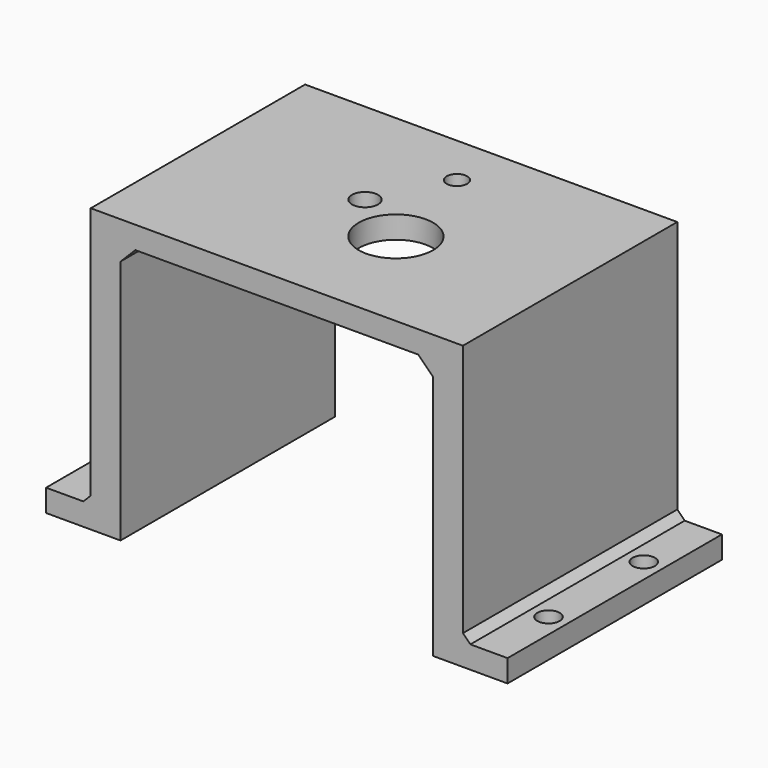
from build123d import *

# Parameters (mm, degrees)
CYLINDER056_R             = 1.38
CYLINDER056_DEPTH         = 40
CYLINDER067_R             = 1.75
CYLINDER067_DEPTH         = 10
CYLINDER066_R             = 5
CYLINDER066_DEPTH         = 10
CYLINDER050_R             = 8.5
CYLINDER050_DEPTH         = 2
BOX028_W                  = 0.5
BOX028_H                  = 1
BOX028_DEPTH              = 5
ARRAY003_COUNT            = 12
BOX029_W                  = 0.5
BOX029_H                  = 1
BOX029_DEPTH              = 5
CYLINDER052_R             = 4.5
CYLINDER052_DEPTH         = 8
CYLINDER054_R             = 1.5
CYLINDER054_DEPTH         = 4
BOX030_W                  = 1
BOX030_H                  = 10
BOX030_DEPTH              = 30
CYLINDER053_R             = 3
CYLINDER053_DEPTH         = 30
CYLINDER051_R             = 13
CYLINDER051_DEPTH         = 10
FUSION008_ROLL_ANGLE      = 180
FUSION008_PLACEMENT_ANGLE = 150
CYLINDER060_R             = 1.5
CYLINDER060_DEPTH         = 5
CYLINDER059_R             = 1.5
CYLINDER059_DEPTH         = 5
CYLINDER058_R             = 1.5
CYLINDER058_DEPTH         = 5
CYLINDER057_R             = 1.5
CYLINDER057_DEPTH         = 5
BOX034_W                  = 4
BOX034_H                  = 36
BOX034_DEPTH              = 38
BOX035_W                  = 4
BOX035_H                  = 36
BOX035_DEPTH              = 38
BOX036_W                  = 10
BOX036_H                  = 36
BOX036_DEPTH              = 3
BOX032_W                  = 10
BOX032_H                  = 36
BOX032_DEPTH              = 3
BOX033_W                  = 50
BOX033_H                  = 36
BOX033_DEPTH              = 3
CHAMFER002_SIZE           = 2
CHAMFER003_SIZE           = 1


with BuildPart() as cylinder056:
    # Cylinder056 → Cylinder056 (new body)
    with BuildSketch(Plane(origin=(38, 57, 59), x_dir=(1, 0, 0), z_dir=(0, 0, 1))):
        Circle(CYLINDER056_R)
    extrude(amount=CYLINDER056_DEPTH)


with BuildPart() as cylinder067:
    # Cylinder067 → Cylinder067 (new body)
    with BuildSketch(Plane(origin=(33.25, 47.5, 71), x_dir=(1, 0, 0), z_dir=(0, 0, 1))):
        Circle(CYLINDER067_R)
    extrude(amount=CYLINDER067_DEPTH)


with BuildPart() as cylinder066:
    # Cylinder066 → Cylinder066 (new body)
    with BuildSketch(Plane(origin=(41, 43, 71), x_dir=(1, 0, 0), z_dir=(0, 0, 1))):
        Circle(CYLINDER066_R)
    extrude(amount=CYLINDER066_DEPTH)


with BuildPart() as cylinder050:
    # Cylinder050 → Cylinder050 (new body)
    with BuildSketch(Plane.XY.offset(10)):
        Circle(CYLINDER050_R)
    extrude(amount=CYLINDER050_DEPTH)


with BuildPart() as pin_array003:
    # Box028 → Box028 (new body)
    with BuildSketch(Plane(origin=(11, -0.5, -5), x_dir=(1, 0, 0), z_dir=(0, 0, 1))):
        with Locations((0.25, 0.5)):
            Rectangle(BOX028_W, BOX028_H)
    extrude(amount=BOX028_DEPTH)

    # Array003: Pin array003 ×12 about axis
    array003_axis = Axis((0, 0, 0), (0, 0, 1))


with BuildPart() as pin_array003_1:
    add(pin_array003.part)
    for i in range(1, ARRAY003_COUNT):
        add(pin_array003.part.rotate(array003_axis, i * 360 / ARRAY003_COUNT))


with BuildPart() as pin_central003:
    # Box029 → Box029 (new body)
    with BuildSketch(Plane(origin=(3, -0.5, -5), x_dir=(1, 0, 0), z_dir=(0, 0, 1))):
        with Locations((0.25, 0.5)):
            Rectangle(BOX029_W, BOX029_H)
    extrude(amount=BOX029_DEPTH)


with BuildPart() as cylinder052:
    # Cylinder052 → Cylinder052 (new body)
    with BuildSketch(Plane.XY.offset(12)):
        Circle(CYLINDER052_R)
    extrude(amount=CYLINDER052_DEPTH)


with BuildPart() as cylinder054:
    # Cylinder054 → Cylinder054 (new body)
    with BuildSketch(Plane(origin=(9, 0, 10), x_dir=(1, 0, 0), z_dir=(0, 0, 1))):
        Circle(CYLINDER054_R)
    extrude(amount=CYLINDER054_DEPTH)


with BuildPart() as obj1:
    # Box030 → Box030 (new body)
    with BuildSketch(Plane(origin=(2, -5, 20), x_dir=(1, 0, 0), z_dir=(0, 0, 1))):
        with Locations((0.5, 5)):
            Rectangle(BOX030_W, BOX030_H)
    extrude(amount=BOX030_DEPTH)


with BuildPart() as obj2:
    # Cylinder053 → Cylinder053 (new body)
    with BuildSketch(Plane.XY.offset(20)):
        Circle(CYLINDER053_R)
    extrude(amount=CYLINDER053_DEPTH)

    # Cut038: cut obj1
    add(obj1.part, mode=Mode.SUBTRACT)


with BuildPart() as selector_taladro001:
    # Cylinder051 → Cylinder051 (new body)
    with BuildSketch(Plane.XY):
        Circle(CYLINDER051_R)
    extrude(amount=CYLINDER051_DEPTH)

    # Fusion008: union Cylinder050, Pin array003, Pin central003, Cylinder052, Cylinder054, obj2
    add(cylinder050.part)
    add(pin_array003_1.part)
    add(pin_central003.part)
    add(cylinder052.part)
    add(cylinder054.part)
    add(obj2.part)


with BuildPart() as selector_taladro001_1:
    # Fusion008 roll: moved
    add(selector_taladro001.part.rotate(Axis((0, 0, 0), (1, 0, 0)), FUSION008_ROLL_ANGLE))


with BuildPart() as selector_taladro001_2:
    # Fusion008 placement: moved
    add(selector_taladro001_1.part.moved(Location((40.992958, 43.010908, 90))).rotate(Axis((40.992958, 43.010908, 90), (0, 0, 1)), FUSION008_PLACEMENT_ANGLE))


with BuildPart() as cylinder060:
    # Cylinder060 → Cylinder060 (new body)
    with BuildSketch(Plane(origin=(65.5, 54, 39), x_dir=(1, 0, 0), z_dir=(0, 0, 1))):
        Circle(CYLINDER060_R)
    extrude(amount=CYLINDER060_DEPTH)


with BuildPart() as cylinder059:
    # Cylinder059 → Cylinder059 (new body)
    with BuildSketch(Plane(origin=(65.5, 38, 39), x_dir=(1, 0, 0), z_dir=(0, 0, 1))):
        Circle(CYLINDER059_R)
    extrude(amount=CYLINDER059_DEPTH)


with BuildPart() as cylinder058:
    # Cylinder058 → Cylinder058 (new body)
    with BuildSketch(Plane(origin=(8.5, 54, 39), x_dir=(1, 0, 0), z_dir=(0, 0, 1))):
        Circle(CYLINDER058_R)
    extrude(amount=CYLINDER058_DEPTH)


with BuildPart() as cylinder057:
    # Cylinder057 → Cylinder057 (new body)
    with BuildSketch(Plane(origin=(8.5, 38, 39), x_dir=(1, 0, 0), z_dir=(0, 0, 1))):
        Circle(CYLINDER057_R)
    extrude(amount=CYLINDER057_DEPTH)


with BuildPart() as box034:
    # Box034 → Box034 (new body)
    with BuildSketch(Plane(origin=(12, 28, 40), x_dir=(1, 0, 0), z_dir=(0, 0, 1))):
        with Locations((2, 18)):
            Rectangle(BOX034_W, BOX034_H)
    extrude(amount=BOX034_DEPTH)


with BuildPart() as box035:
    # Box035 → Box035 (new body)
    with BuildSketch(Plane(origin=(58, 28, 40), x_dir=(1, 0, 0), z_dir=(0, 0, 1))):
        with Locations((2, 18)):
            Rectangle(BOX035_W, BOX035_H)
    extrude(amount=BOX035_DEPTH)


with BuildPart() as box036:
    # Box036 → Box036 (new body)
    with BuildSketch(Plane(origin=(6, 28, 40), x_dir=(1, 0, 0), z_dir=(0, 0, 1))):
        with Locations((5, 18)):
            Rectangle(BOX036_W, BOX036_H)
    extrude(amount=BOX036_DEPTH)


with BuildPart() as box032:
    # Box032 → Box032 (new body)
    with BuildSketch(Plane(origin=(58, 28, 40), x_dir=(1, 0, 0), z_dir=(0, 0, 1))):
        with Locations((5, 18)):
            Rectangle(BOX032_W, BOX032_H)
    extrude(amount=BOX032_DEPTH)


with BuildPart() as cut032:
    # Box033 → Box033 (new body)
    with BuildSketch(Plane(origin=(12, 28, 75), x_dir=(1, 0, 0), z_dir=(0, 0, 1))):
        with Locations((25, 18)):
            Rectangle(BOX033_W, BOX033_H)
    extrude(amount=BOX033_DEPTH)

    # Fusion007: union Box034, Box035, Box036, Box032
    add(box034.part)
    add(box035.part)
    add(box036.part)
    add(box032.part)

    # Chamfer002
    chamfer002_edges = [cut032.edges().sort_by_distance(p)[0] for p in [
        (58, 46, 75),
        (16, 46, 75),
    ]]
    chamfer(chamfer002_edges, length=CHAMFER002_SIZE)

    # Chamfer003
    chamfer003_edges = [cut032.edges().sort_by_distance(p)[0] for p in [
        (62, 46, 43),
        (12, 46, 43),
    ]]
    chamfer(chamfer003_edges, length=CHAMFER003_SIZE)

    # Cut030: cut Cylinder057
    add(cylinder057.part, mode=Mode.SUBTRACT)

    # Cut031: cut Cylinder058
    add(cylinder058.part, mode=Mode.SUBTRACT)

    # Cut029: cut Cylinder059
    add(cylinder059.part, mode=Mode.SUBTRACT)

    # Cut039: cut Cylinder060
    add(cylinder060.part, mode=Mode.SUBTRACT)

    # Cut041: cut Selector taladro001
    add(selector_taladro001_2.part, mode=Mode.SUBTRACT)

    # Cut043: cut Cylinder066
    add(cylinder066.part, mode=Mode.SUBTRACT)

    # Cut042: cut Cylinder067
    add(cylinder067.part, mode=Mode.SUBTRACT)

    # Cut032: cut Cylinder056
    add(cylinder056.part, mode=Mode.SUBTRACT)


with BuildPart() as cut032_1:
    # Cut032 placement: moved
    add(cut032.part.moved(Location((0, 124, 0))))


solid = cut032_1.part
